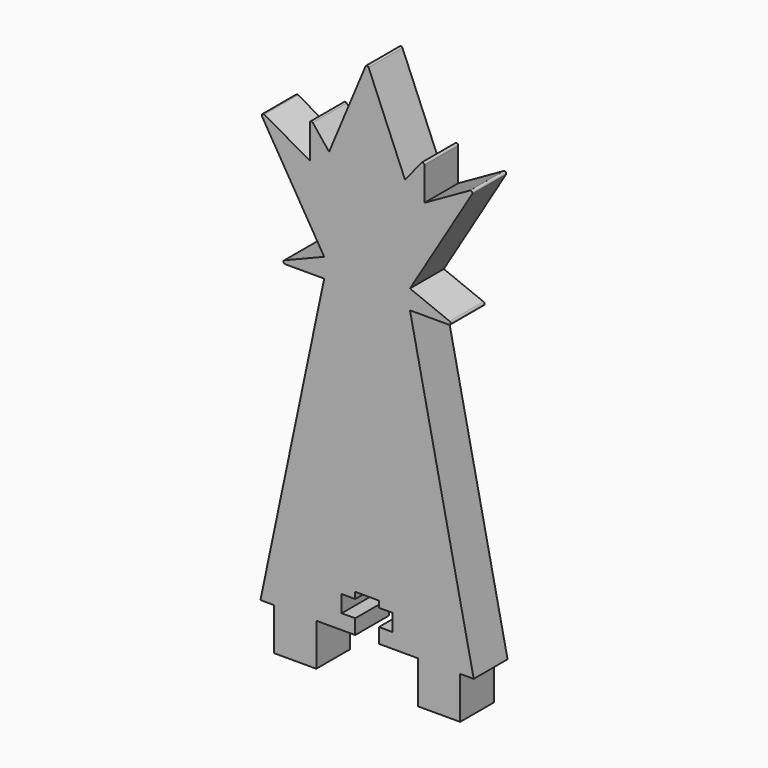
from build123d import *

# Parameters (mm, degrees)
F1_DEPTH = 6.35
F3_DEPTH = 25.4


with BuildPart() as f1:
    # F0 (on Front) → F1 (new body)
    with BuildSketch(Plane.XZ):
        with BuildLine():
            Line((-8.60168, 65.473363), (-8.60168, 60.481215))
            Line((-8.60168, 60.481215), (-7.207527, 59.695447))
            ThreePointArc((-7.207527, 59.695447), (-7.000316, 59.676491), (-6.848468, 59.818749))
            Line((-6.848468, 59.818749), (-5.699468, 62.567109))
            Line((-5.699468, 62.567109), (-8.149274, 65.631954))
            ThreePointArc((-8.149274, 65.631954), (-8.431706, 65.713062), (-8.60168, 65.473363))
        make_face()
        with BuildLine():
            Line((8.149274, 65.631954), (5.699468, 62.567109))
            Line((5.699468, 62.567109), (6.848468, 59.818749))
            ThreePointArc((6.848468, 59.818749), (7.000316, 59.676491), (7.207527, 59.695447))
            Line((7.207527, 59.695447), (8.60168, 60.481215))
            Line((8.60168, 60.481215), (8.60168, 65.473363))
            ThreePointArc((8.60168, 65.473363), (8.431706, 65.713062), (8.149274, 65.631954))
        make_face()
        with BuildLine():
            Line((-16.002, 0), (-13.97, 0))
            Line((-13.97, 0), (-13.97, -6.35))
            Line((-13.97, -6.35), (-7.62, -6.35))
            Line((-7.62, -6.35), (-7.62, 0))
            Line((-7.62, 0), (7.62, 0))
            Line((7.62, 0), (7.62, -6.35))
            Line((7.62, -6.35), (13.97, -6.35))
            Line((13.97, -6.35), (13.97, 0))
            Line((13.97, 0), (16.002, 0))
            Line((16.002, 0), (6.437228, 45.575388))
            Line((6.437228, 45.575388), (12.295376, 45.575388))
            ThreePointArc((12.295376, 45.575388), (12.544743, 45.781092), (12.390205, 46.065022))
            Line((12.390205, 46.065022), (6.437228, 48.460748))
            Line((6.437228, 48.460748), (15.769244, 63.975811))
            ThreePointArc((15.769244, 63.975811), (15.733709, 64.283779), (15.426869, 64.328005))
            Line((15.426869, 64.328005), (8.60168, 60.481215))
            Line((8.60168, 60.481215), (7.207527, 59.695447))
            ThreePointArc((7.207527, 59.695447), (7.000316, 59.676491), (6.848468, 59.818749))
            Line((6.848468, 59.818749), (5.699468, 62.567109))
            Line((5.699468, 62.567109), (0.234345, 75.639457))
            ThreePointArc((0.234345, 75.639457), (0, 75.795485), (-0.234345, 75.639457))
            Line((-0.234345, 75.639457), (-5.699468, 62.567109))
            Line((-5.699468, 62.567109), (-6.848468, 59.818749))
            ThreePointArc((-6.848468, 59.818749), (-7.000316, 59.676491), (-7.207527, 59.695447))
            Line((-7.207527, 59.695447), (-8.60168, 60.481215))
            Line((-8.60168, 60.481215), (-15.426869, 64.328005))
            ThreePointArc((-15.426869, 64.328005), (-15.733709, 64.283779), (-15.769244, 63.975811))
            Line((-15.769244, 63.975811), (-6.437228, 48.460748))
            Line((-6.437228, 48.460748), (-12.390205, 46.065022))
            ThreePointArc((-12.390205, 46.065022), (-12.544743, 45.781092), (-12.295376, 45.575388))
            Line((-12.295376, 45.575388), (-6.437228, 45.575388))
            Line((-6.437228, 45.575388), (-16.002, 0))
        make_face()
    extrude(amount=F1_DEPTH)

    # F2 (on Front) → F3 (cut)
    with BuildSketch(Plane.XZ):
        Polygon((1.778, 5.715), (-1.778, 5.715), (-1.778, 4.7625), (-3.81, 4.7625), (-3.81, 2.2225), (-1.778, 2.2225), (-1.778, 0), (1.778, 0), (1.778, 2.2225), (3.81, 2.2225), (3.81, 4.7625), (1.778, 4.7625), align=None)
    extrude(amount=F3_DEPTH, mode=Mode.SUBTRACT)


solid = f1.part
